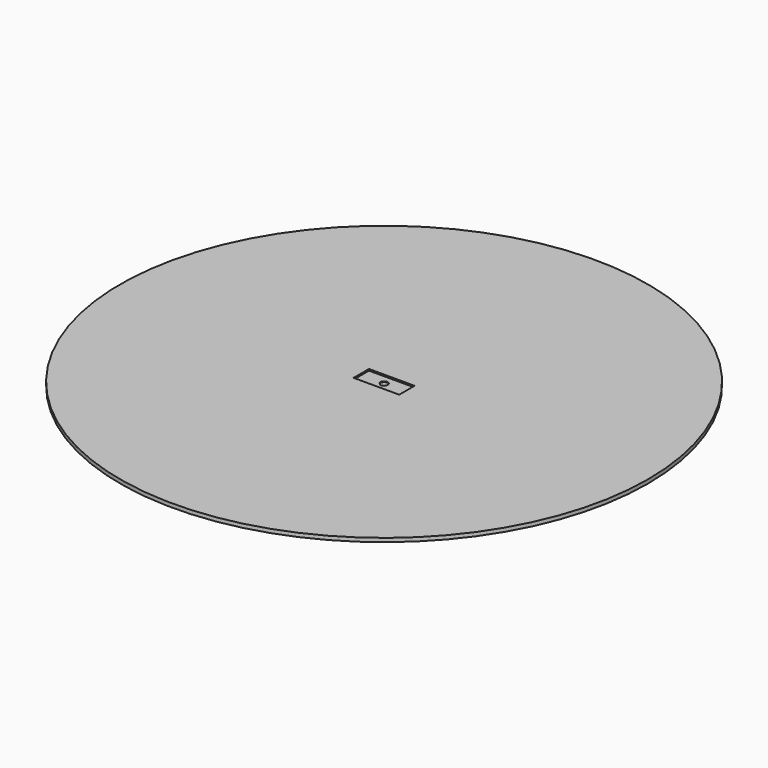
from build123d import *

# Parameters (mm, degrees)
F0_R     = 350
F0_W     = 60.5
F0_H     = 25.5
F1_DEPTH = 5
F2_DEPTH = 2
F3_R     = 5
F4_DEPTH = 1


with BuildPart() as f1:
    # F0 (on Top) → F1 (new body)
    with BuildSketch(Plane.XY):
        Circle(F0_R)
        Rectangle(F0_W, F0_H, mode=Mode.SUBTRACT)
        Rectangle(F0_W, F0_H)
    extrude(amount=-F1_DEPTH)

    # F0 (on Top) → F2 (cut)
    with BuildSketch(Plane.XY):
        Rectangle(F0_W, F0_H)
    extrude(amount=-F2_DEPTH, mode=Mode.SUBTRACT)

    # F3 (on face) → F4 (cut)
    with BuildSketch(Plane.XY.offset(-2)):
        Circle(F3_R)
    extrude(amount=-F4_DEPTH, mode=Mode.SUBTRACT)


solid = f1.part
